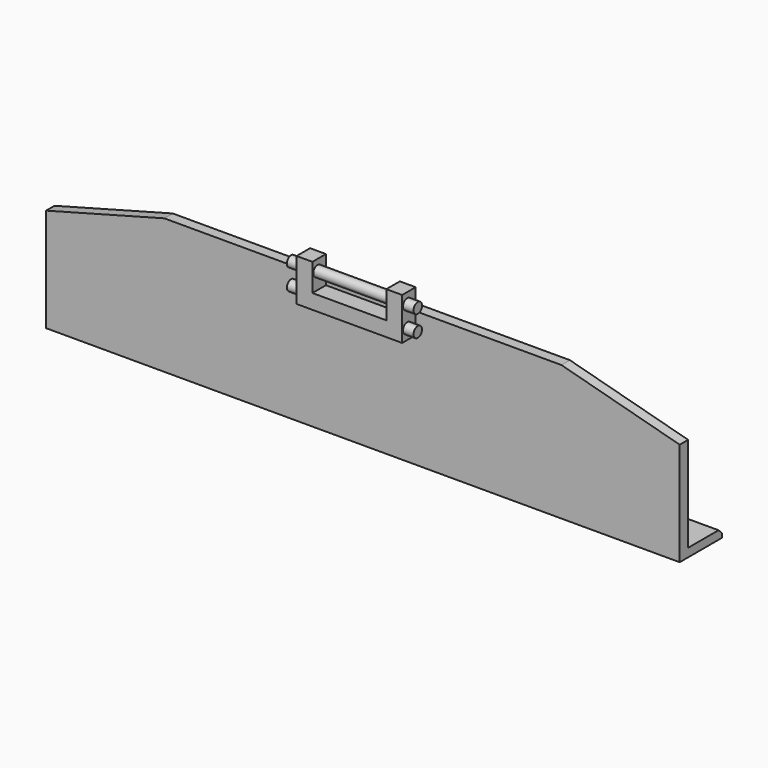
from build123d import *

# Parameters (mm, degrees)
F0_W      = 300
F0_H      = 25
F1_DEPTH  = 4
F2_W      = 300
F2_H      = 5
F3_DEPTH  = 60
F4_SIZE2  = 55.980762
F4_SIZE   = 15
F5_SIZE   = 2
F6_W      = 50
F6_H      = 20
F7_DEPTH  = 8
F9_R      = 2.5
F10_DEPTH = 5
F11_R     = 2.5
F12_DEPTH = 5
F13_W     = 35
F13_H     = 25
F14_DEPTH = 8
F15_R     = 2.5
F16_DEPTH = 35


with BuildPart() as f1:
    # F0 (on Top) → F1 (new body)
    with BuildSketch(Plane.XY):
        Rectangle(F0_W, F0_H)
    extrude(amount=F1_DEPTH)

    # F2 (on face) → F3 (join)
    with BuildSketch(Plane.XY.offset(4)):
        with Locations((0, -10)):
            Rectangle(F2_W, F2_H)
    extrude(amount=F3_DEPTH)

    # F4
    f4_edges = [f1.edges().sort_by_distance(p)[0] for p in [
        (-150, -10, 64),
        (150, -10, 64),
    ]]
    chamfer(f4_edges, length=F4_SIZE, length2=F4_SIZE2)

    # F5
    f5_edges = [f1.edges().sort_by_distance(p)[0] for p in [
        (0, 12.5, 4),
    ]]
    chamfer(f5_edges, length=F5_SIZE)

    # F6 (on face) → F7 (join)
    with BuildSketch(Plane.XZ.offset(12.5)):
        with Locations((0, 64)):
            Rectangle(F6_W, F6_H)
    extrude(amount=F7_DEPTH)

    # F9 (on face) → F10 (join)
    with BuildSketch(Plane(origin=(-25, 0, 0), x_dir=(0, -1, 0), z_dir=(-1, 0, 0))):
        with Locations((17.5, 69)):
            Circle(F9_R)
        with Locations((17.5, 59)):
            Circle(F9_R)
    extrude(amount=F10_DEPTH)

    # F11 (on face) → F12 (join)
    with BuildSketch(Plane.YZ.offset(25)):
        with Locations((-17.5, 59)):
            Circle(F11_R)
        with Locations((-17.5, 69)):
            Circle(F11_R)
    extrude(amount=F12_DEPTH)

    # F13 (on face) → F14 (cut)
    with BuildSketch(Plane.XZ.offset(20.5)):
        with Locations((0, 73.5)):
            Rectangle(F13_W, F13_H)
    extrude(amount=-F14_DEPTH, mode=Mode.SUBTRACT)

    # F15 (on face) → F16 (join, through all)
    with BuildSketch(Plane(origin=(17.5, 0, 0), x_dir=(0, -1, 0), z_dir=(-1, 0, 0))):
        with Locations((17.5, 69)):
            Circle(F15_R)
    extrude(amount=F16_DEPTH)


solid = f1.part
